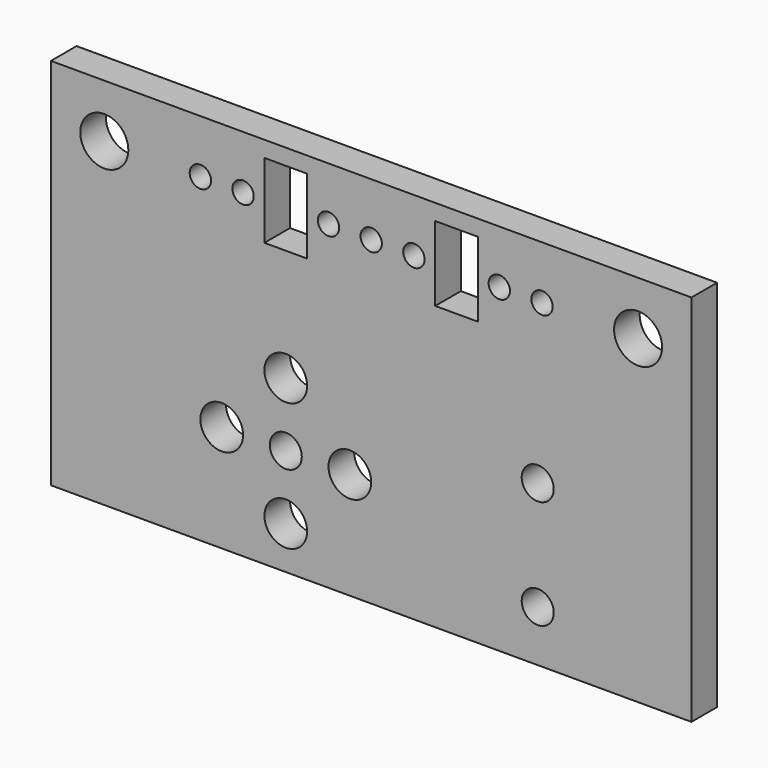
from build123d import *

# Parameters (mm, degrees)
SKETCH_W      = 60
SKETCH_H      = 3
PAD_DEPTH     = 35
SKETCH001_R   = 1.5
SKETCH001_R_2 = 2
SKETCH001_R_3 = 2.25
SKETCH001_R_4 = 1
SKETCH001_W   = 4
SKETCH001_H   = 7
POCKET_DEPTH  = 3


with BuildPart() as part:
    # Sketch → Pad (new body)
    with BuildSketch(Plane.XY):
        with Locations((30, 1.5)):
            Rectangle(SKETCH_W, SKETCH_H)
    extrude(amount=PAD_DEPTH)

    # Sketch001 → Pocket (cut)
    with BuildSketch(Plane.XZ):
        with Locations((22, 10)):
            Circle(SKETCH001_R)
        with Locations((28, 10)):
            Circle(SKETCH001_R_2)
        with Locations((22, 16)):
            Circle(SKETCH001_R_2)
        with Locations((16, 10)):
            Circle(SKETCH001_R_2)
        with Locations((22, 4)):
            Circle(SKETCH001_R_2)
        with Locations((5, 30)):
            Circle(SKETCH001_R_3)
        with Locations((55, 30)):
            Circle(SKETCH001_R_3)
        with Locations((14, 30)):
            Circle(SKETCH001_R_4)
        with Locations((18, 30)):
            Circle(SKETCH001_R_4)
        with Locations((26, 30)):
            Circle(SKETCH001_R_4)
        with Locations((30, 30)):
            Circle(SKETCH001_R_4)
        with Locations((34, 30)):
            Circle(SKETCH001_R_4)
        with Locations((42, 30)):
            Circle(SKETCH001_R_4)
        with Locations((46, 30)):
            Circle(SKETCH001_R_4)
        with Locations((45.6, 15)):
            Circle(SKETCH001_R)
        with Locations((45.6, 4.8)):
            Circle(SKETCH001_R)
        with Locations((22, 30)):
            Rectangle(SKETCH001_W, SKETCH001_H)
        with Locations((38, 30)):
            Rectangle(SKETCH001_W, SKETCH001_H)
    extrude(amount=-POCKET_DEPTH, mode=Mode.SUBTRACT)


solid = part.part
